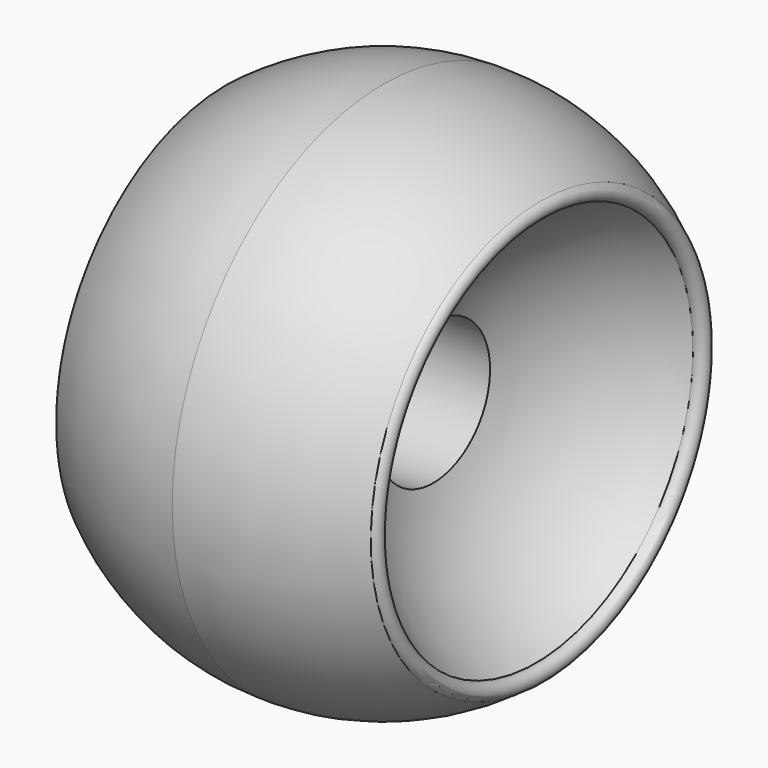
from build123d import *


with BuildPart() as f1:
    # F0 (on Front) → F1 (revolve)
    with BuildSketch(Plane.XZ):
        with BuildLine():
            Line((-1.979492, 2.8194), (0.015082, 2.8194))
            Line((0.015082, 2.8194), (0, 10.4775))
            ThreePointArc((0, 10.4775), (-3.282958, 9.949884), (-6.235276, 8.420174))
            ThreePointArc((-6.235276, 8.420174), (-6.368421, 8.131365), (-6.196577, 7.863769))
            ThreePointArc((-6.196577, 7.863769), (-3.608243, 5.742689), (-1.979492, 2.8194))
        make_face()
        with BuildLine():
            Line((0, 10.4775), (0.015082, 2.8194))
            Line((0.015082, 2.8194), (1.979492, 2.8194))
            ThreePointArc((1.979492, 2.8194), (3.55668, 5.680442), (6.055298, 7.785197))
            ThreePointArc((6.055298, 7.785197), (6.4412, 8.018812), (6.235276, 8.420174))
            ThreePointArc((6.235276, 8.420174), (3.282958, 9.949884), (0, 10.4775))
        make_face()
    revolve(axis=Axis((0, 0, 0), (1, 0, 0)))


solid = f1.part
